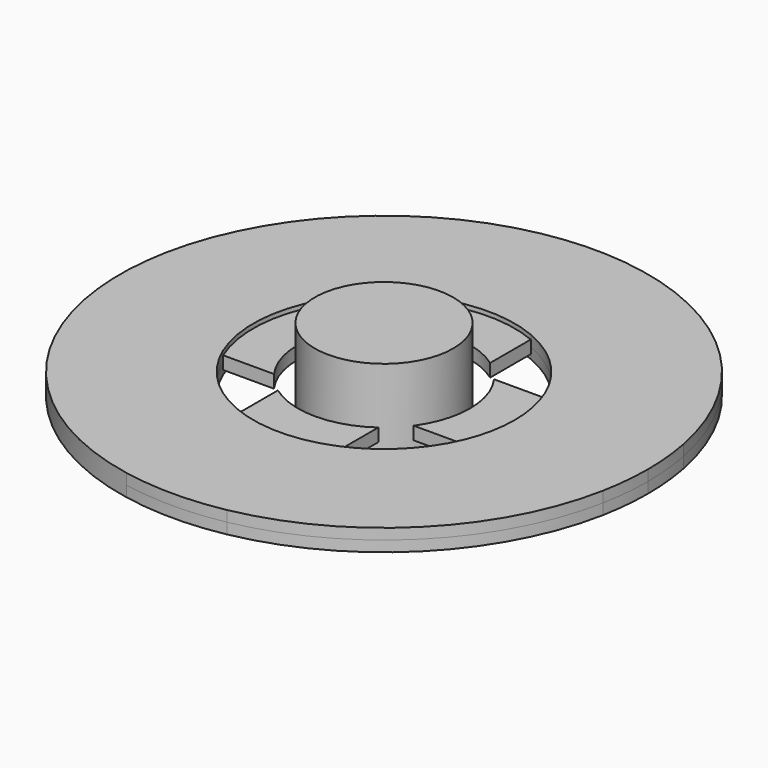
from build123d import *

# Parameters (mm, degrees)
F1_DEPTH = 2.5
F2_DEPTH = 1.5
F0_R     = 16.0879189499
F3_DEPTH = 12.5


with BuildPart() as f1:
    # F0 (on Top) → F1 (new body, symmetric)
    with BuildSketch(Plane.XY):
        with BuildLine():
            ThreePointArc((-60.2253776831, -11.6721854729), (-43.3781974659, -43.3781974659), (-11.6721854729, -60.2253776831))
            Line((-11.6721854729, -60.2253776831), (-11.6721854729, -28.0478593798))
            ThreePointArc((-11.6721854729, -28.0478593798), (-21.4816471611, -21.4816471611), (-28.0478593798, -11.6721854729))
            Line((-28.0478593798, -11.6721854729), (-60.2253776831, -11.6721854729))
        make_face()
        with BuildLine():
            Line((-28.0478593798, 11.6721854729), (-60.2253776831, 11.6721854729))
            ThreePointArc((-60.2253776831, 11.6721854729), (-61.3460351676, 0), (-60.2253776831, -11.6721854729))
            Line((-60.2253776831, -11.6721854729), (-28.0478593798, -11.6721854729))
            ThreePointArc((-28.0478593798, -11.6721854729), (-30.3796367573, 0), (-28.0478593798, 11.6721854729))
        make_face()
        with BuildLine():
            Line((-11.6721854729, 28.0478593798), (-11.6721854729, 60.2253776831))
            ThreePointArc((-11.6721854729, 60.2253776831), (-43.3781974659, 43.3781974659), (-60.2253776831, 11.6721854729))
            Line((-60.2253776831, 11.6721854729), (-28.0478593798, 11.6721854729))
            ThreePointArc((-28.0478593798, 11.6721854729), (-21.4816471611, 21.4816471611), (-11.6721854729, 28.0478593798))
        make_face()
        with BuildLine():
            Line((11.6721854729, 28.0478593799), (11.6721854729, 60.2253776831))
            ThreePointArc((11.6721854729, 60.2253776831), (0, 61.3460351676), (-11.6721854729, 60.2253776831))
            Line((-11.6721854729, 60.2253776831), (-11.6721854729, 28.0478593798))
            ThreePointArc((-11.6721854729, 28.0478593798), (0, 30.3796367573), (11.6721854729, 28.0478593798))
        make_face()
        with BuildLine():
            Line((28.0478593798, 11.6721854729), (60.2253776831, 11.6721854729))
            ThreePointArc((60.2253776831, 11.6721854729), (43.3781974659, 43.3781974659), (11.6721854729, 60.2253776831))
            Line((11.6721854729, 60.2253776831), (11.6721854729, 28.0478593799))
            ThreePointArc((11.6721854729, 28.0478593798), (21.4816471611, 21.4816471611), (28.0478593798, 11.6721854729))
        make_face()
        with BuildLine():
            ThreePointArc((60.2253776831, -11.6721854729), (61.0652281094, -5.8629298757), (61.3460351676, 0))
            ThreePointArc((61.3460351676, 0), (61.0652281094, 5.8629298757), (60.2253776831, 11.6721854729))
            Line((60.2253776831, 11.6721854729), (28.0478593798, 11.6721854729))
            ThreePointArc((28.0478593798, 11.6721854729), (29.7909894875, 5.9514094854), (30.3796367573, 0))
            ThreePointArc((30.3796367573, 0), (29.7909894875, -5.9514094854), (28.0478593798, -11.6721854729))
            Line((28.0478593798, -11.6721854729), (60.2253776831, -11.6721854729))
        make_face()
        with BuildLine():
            ThreePointArc((11.6721854729, -60.2253776831), (43.3781974659, -43.3781974659), (60.2253776831, -11.6721854729))
            Line((60.2253776831, -11.6721854729), (28.0478593798, -11.6721854729))
            ThreePointArc((28.0478593798, -11.6721854729), (21.4816471611, -21.4816471611), (11.6721854729, -28.0478593798))
            Line((11.6721854729, -28.0478593799), (11.6721854729, -60.2253776831))
        make_face()
        with BuildLine():
            ThreePointArc((-11.6721854729, -60.2253776831), (0, -61.3460351676), (11.6721854729, -60.2253776831))
            Line((11.6721854729, -60.2253776831), (11.6721854729, -28.0478593799))
            ThreePointArc((11.6721854729, -28.0478593798), (0, -30.3796367573), (-11.6721854729, -28.0478593798))
            Line((-11.6721854729, -28.0478593798), (-11.6721854729, -60.2253776831))
        make_face()
    extrude(amount=F1_DEPTH, both=True)


with BuildPart() as f2:
    # F0 (on Top) → F2 (new body, symmetric)
    with BuildSketch(Plane.XY):
        with BuildLine():
            Line((-16.240692297, 11.6721854729), (-28.0478593798, 11.6721854729))
            ThreePointArc((-28.0478593798, 11.6721854729), (-30.3796367573, 0), (-28.0478593798, -11.6721854729))
            Line((-28.0478593798, -11.6721854729), (-16.240692297, -11.6721854729))
            ThreePointArc((-16.240692297, -11.6721854729), (-20, 0), (-16.240692297, 11.6721854729))
        make_face()
    extrude(amount=F2_DEPTH, both=True)


with BuildPart() as f2b:
    # F0 (on Top) → F2, piece 2 (new body, symmetric)
    with BuildSketch(Plane.XY):
        with BuildLine():
            Line((11.6721854729, 16.240692297), (11.6721854729, 28.0478593799))
            ThreePointArc((11.6721854729, 28.0478593798), (0, 30.3796367573), (-11.6721854729, 28.0478593798))
            Line((-11.6721854729, 28.0478593798), (-11.6721854729, 16.240692297))
            ThreePointArc((-11.6721854729, 16.240692297), (0, 20), (11.6721854729, 16.240692297))
        make_face()
    extrude(amount=F2_DEPTH, both=True)


with BuildPart() as f2c:
    # F0 (on Top) → F2, piece 3 (new body, symmetric)
    with BuildSketch(Plane.XY):
        with BuildLine():
            ThreePointArc((30.3796367573, 0), (29.7909894875, 5.9514094854), (28.0478593798, 11.6721854729))
            Line((28.0478593798, 11.6721854729), (16.240692297, 11.6721854729))
            ThreePointArc((16.240692297, 11.6721854729), (19.0369882852, 6.1313193547), (20, 0))
            ThreePointArc((20, 0), (19.0369882852, -6.1313193547), (16.240692297, -11.6721854729))
            Line((16.240692297, -11.6721854729), (28.0478593798, -11.6721854729))
            ThreePointArc((28.0478593798, -11.6721854729), (29.7909894875, -5.9514094854), (30.3796367573, 0))
        make_face()
    extrude(amount=F2_DEPTH, both=True)


with BuildPart() as f2d:
    # F0 (on Top) → F2, piece 4 (new body, symmetric)
    with BuildSketch(Plane.XY):
        with BuildLine():
            ThreePointArc((-11.6721854729, -28.0478593798), (0, -30.3796367573), (11.6721854729, -28.0478593798))
            Line((11.6721854729, -28.0478593799), (11.6721854729, -16.240692297))
            ThreePointArc((11.6721854729, -16.240692297), (0, -20), (-11.6721854729, -16.240692297))
            Line((-11.6721854729, -16.240692297), (-11.6721854729, -28.0478593798))
        make_face()
    extrude(amount=F2_DEPTH, both=True)


with BuildPart() as f3:
    # F0 (on Top) → F3 (new body, symmetric)
    with BuildSketch(Plane.XY):
        Circle(F0_R)
    extrude(amount=F3_DEPTH, both=True)


solid = Compound([f1.part, f2.part, f2b.part, f2c.part, f2d.part, f3.part])
